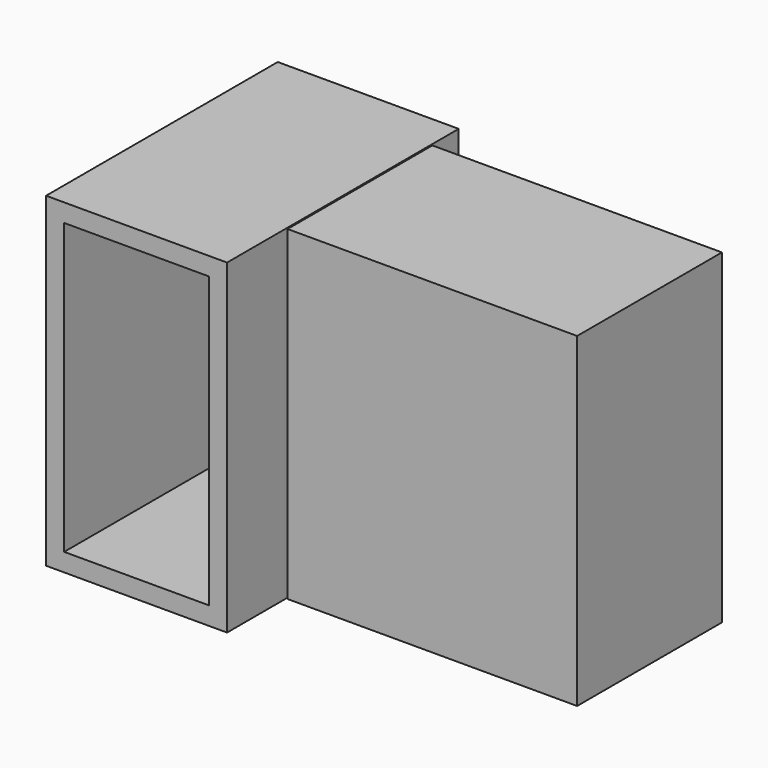
from build123d import *

# Parameters (mm, degrees)
F0_W     = 63.5
F0_H     = 114.3
F0_W_2   = 50.8
F0_H_2   = 101.6
F1_DEPTH = 101.6
F3_W     = 63.5
F3_H     = 114.3
F4_DEPTH = 101.6


with BuildPart() as f1:
    # F0 (on Front) → F1 (new body)
    with BuildSketch(Plane.XZ):
        Rectangle(F0_W, F0_H)
        Rectangle(F0_W_2, F0_H_2, mode=Mode.SUBTRACT)
    extrude(amount=F1_DEPTH)


with BuildPart() as f4:
    # F3 (on offset) → F4 (new body)
    with BuildSketch(Plane.YZ.offset(32.258)):
        with Locations((-43.9423679346, 0)):
            Rectangle(F3_W, F3_H)
    extrude(amount=F4_DEPTH)


solid = Compound([f1.part, f4.part])
